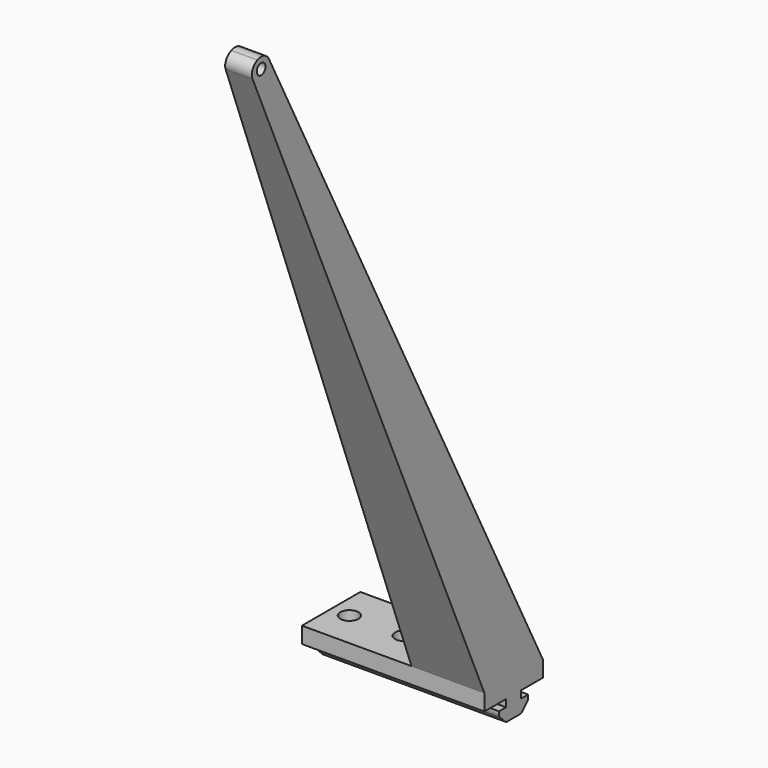
from build123d import *

# Parameters (mm, degrees)
F1_DEPTH = 50
F2_DEPTH = 20
F5_DEPTH = 99.6315023101
F6_R     = 1.5
F7_DEPTH = 7.4226145035
F8_R     = 2.5
F9_DEPTH = 10.0478655756


with BuildPart() as f1:
    # F0 (on Right) → F1 (new body)
    with BuildSketch(Plane.YZ):
        with BuildLine():
            Line((10, -2.2239327878), (10, 2.2239327878))
            Line((10, 2.2239327878), (-10, 2.2239327878))
            Line((-10, 2.2239327878), (-10, -2.2239327878))
            Line((-10, -2.2239327878), (-2.6, -2.2239327878))
            Line((-2.6, -2.2239327878), (-2.6, -4.2239327878))
            Line((-2.6, -4.2239327878), (-5, -4.2239327878))
            Line((-5, -4.2239327878), (-5, -5.0419522724))
            ThreePointArc((-5, -5.0419522724), (-4.9238795325, -5.4246357048), (-4.7071067812, -5.7490590536))
            Line((-4.7071067812, -5.7490590536), (-2.9251262658, -7.531039569))
            ThreePointArc((-2.9251262658, -7.531039569), (-2.600702917, -7.7478123203), (-2.2180194847, -7.8239327878))
            Line((-2.2180194847, -7.8239327878), (2.2180194847, -7.8239327878))
            ThreePointArc((2.2180194847, -7.8239327878), (2.600702917, -7.7478123203), (2.9251262658, -7.531039569))
            Line((2.9251262658, -7.531039569), (4.7071067812, -5.7490590536))
            ThreePointArc((4.7071067812, -5.7490590536), (4.9238795325, -5.4246357048), (5, -5.0419522724))
            Line((5, -5.0419522724), (5, -4.2239327878))
            Line((5, -4.2239327878), (2.6, -4.2239327878))
            Line((2.6, -4.2239327878), (2.6, -2.2239327878))
            Line((2.6, -2.2239327878), (10, -2.2239327878))
        make_face()
    extrude(amount=-F1_DEPTH)

    # F0 (on Right) → F2 (join)
    with BuildSketch(Plane.YZ):
        with BuildLine():
            Line((10, -2.2239327878), (10, 2.2239327878))
            Line((10, 2.2239327878), (-10, 2.2239327878))
            Line((-10, 2.2239327878), (-10, -2.2239327878))
            Line((-10, -2.2239327878), (-2.6, -2.2239327878))
            Line((-2.6, -2.2239327878), (-2.6, -4.2239327878))
            Line((-2.6, -4.2239327878), (-5, -4.2239327878))
            Line((-5, -4.2239327878), (-5, -5.0419522724))
            ThreePointArc((-5, -5.0419522724), (-4.9238795325, -5.4246357048), (-4.7071067812, -5.7490590536))
            Line((-4.7071067812, -5.7490590536), (-2.9251262658, -7.531039569))
            ThreePointArc((-2.9251262658, -7.531039569), (-2.600702917, -7.7478123203), (-2.2180194847, -7.8239327878))
            Line((-2.2180194847, -7.8239327878), (2.2180194847, -7.8239327878))
            ThreePointArc((2.2180194847, -7.8239327878), (2.600702917, -7.7478123203), (2.9251262658, -7.531039569))
            Line((2.9251262658, -7.531039569), (4.7071067812, -5.7490590536))
            ThreePointArc((4.7071067812, -5.7490590536), (4.9238795325, -5.4246357048), (5, -5.0419522724))
            Line((5, -5.0419522724), (5, -4.2239327878))
            Line((5, -4.2239327878), (2.6, -4.2239327878))
            Line((2.6, -4.2239327878), (2.6, -2.2239327878))
            Line((2.6, -2.2239327878), (10, -2.2239327878))
        make_face()
        with BuildLine():
            Line((-10, 2.2239327878), (10, 2.2239327878))
            Line((10, 2.2239327878), (-83.8033707131, 185.1717589215))
            ThreePointArc((-83.8033707131, 185.1717589215), (-85.4691993199, 186.6301037549), (-87.6816926961, 186.5486933108))
            Line((-87.6816926961, 186.5486933108), (-87.8392769518, 186.4793179564))
            ThreePointArc((-87.8392769518, 186.4793179564), (-89.4267375498, 184.8203885461), (-89.376201468, 182.5248441568))
            Line((-89.376201468, 182.5248441568), (-10, 2.2239327878))
        make_face()
    extrude(amount=-F2_DEPTH)

    # F4 (on offset) → F5 (cut, through all)
    with BuildSketch(Plane.XZ.offset(-10)):
        Polygon((-20, 203.6575904285), (-20, 2), (-6, 202.6809155941), align=None)
    extrude(amount=F5_DEPTH, mode=Mode.SUBTRACT)

    # F6 (on face) → F7 (cut, through all)
    with BuildSketch(Plane.YZ):
        with Locations((-86.4729180545, 183.8029941528)):
            Circle(F6_R)
    extrude(amount=-F7_DEPTH, mode=Mode.SUBTRACT)

    # F8 (on face) → F9 (cut, through all)
    with BuildSketch(Plane.XY.offset(2.2239327878)):
        with Locations((-45, 0)):
            Circle(F8_R)
        with Locations((-30, 0)):
            Circle(F8_R)
    extrude(amount=-F9_DEPTH, mode=Mode.SUBTRACT)


solid = f1.part
